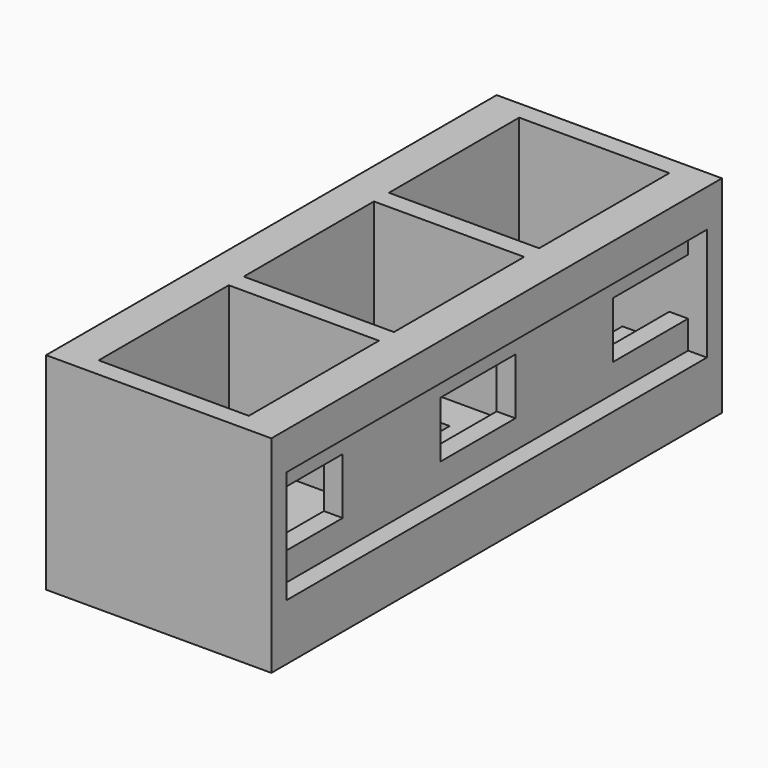
from build123d import *

# Parameters (mm, degrees)
F0_W      = 25.4
F0_H      = 25.4
F1_DEPTH  = 76.2
F2_W      = 5.08
F2_H      = 7.62
F3_DEPTH  = 25.4
F4_W      = 76.2
F4_H      = 25.4
F4_W_2    = 71.12
F4_H_2    = 15.24
F5_DEPTH  = 2.54
F6_W      = 76.2
F6_H      = 25.4
F6_W_2    = 71.12
F6_H_2    = 15.24
F7_DEPTH  = 2.54
F8_W      = 5.08
F8_H      = 7.62
F8_W_2    = 2.54
F8_W_3    = 3.81
F9_DEPTH  = 25.4
F10_W     = 7.62
F10_H     = 12.7
F11_DEPTH = 25.4
F12_W     = 2.54
F12_H     = 71.12
F13_DEPTH = 2.54
F14_W     = 71.12
F14_H     = 15.24
F15_DEPTH = 2.54
F16_W     = 12.7
F16_H     = 7.62
F17_DEPTH = 8.89
F18_W     = 12.7
F18_H     = 7.62
F19_DEPTH = 8.89
F20_W     = 12.7
F20_H     = 7.62
F21_DEPTH = 8.89
F22_W     = 20.32
F22_H     = 22.0218
F22_H_2   = 22.013333
F22_H_3   = 22.004867
F23_DEPTH = 20.32
F25_W     = 76.2
F25_H     = 2.54
F26_DEPTH = 2.54
F27_W     = 2.54
F27_H     = 76.2
F28_DEPTH = 2.54


with BuildPart() as f1:
    # F0 (on Front) → F1 (new body)
    with BuildSketch(Plane.XZ):
        with Locations((12.7, 12.7)):
            Rectangle(F0_W, F0_H)
    extrude(amount=F1_DEPTH)

    # F2 (on face) → F3 (cut)
    with BuildSketch(Plane(origin=(0, 0, 0), x_dir=(0, -1, 0), z_dir=(-1, 0, 0))):
        with Locations((7.62, 12.7)):
            Rectangle(F2_W, F2_H)
        with Locations((38.1, 12.7)):
            Rectangle(F2_W, F2_H)
        with Locations((68.58, 12.7)):
            Rectangle(F2_W, F2_H)
    extrude(amount=-F3_DEPTH, mode=Mode.SUBTRACT)

    # F4 (on face) → F5 (join)
    with BuildSketch(Plane(origin=(0, 0, 0), x_dir=(0, -1, 0), z_dir=(-1, 0, 0))):
        with Locations((38.1, 12.7)):
            Rectangle(F4_W, F4_H)
        with Locations((38.1, 12.7)):
            Rectangle(F4_W_2, F4_H_2, mode=Mode.SUBTRACT)
    extrude(amount=F5_DEPTH)

    # F6 (on face) → F7 (join)
    with BuildSketch(Plane.YZ.offset(25.4)):
        with Locations((-38.1, 12.7)):
            Rectangle(F6_W, F6_H)
        with Locations((-38.1, 12.7)):
            Rectangle(F6_W_2, F6_H_2, mode=Mode.SUBTRACT)
    extrude(amount=F7_DEPTH)

    # F8 (on face) → F9 (cut)
    with BuildSketch(Plane(origin=(0, 0, 0), x_dir=(0, -1, 0), z_dir=(-1, 0, 0))):
        with Locations((12.7, 12.7)):
            Rectangle(F8_W, F8_H)
        with Locations((3.81, 12.7)):
            Rectangle(F8_W_2, F8_H)
        with Locations((33.655, 12.7)):
            Rectangle(F8_W_3, F8_H)
        with Locations((42.545, 12.7)):
            Rectangle(F8_W_3, F8_H)
        with Locations((63.5, 12.7)):
            Rectangle(F8_W, F8_H)
        with Locations((72.39, 12.7)):
            Rectangle(F8_W_2, F8_H)
    extrude(amount=-F9_DEPTH, mode=Mode.SUBTRACT)

    # F10 (on face) → F11 (cut)
    with BuildSketch(Plane(origin=(0, 0, 0), x_dir=(1, 0, 0), z_dir=(0, 0, -1))):
        with Locations((12.7, 8.89)):
            Rectangle(F10_W, F10_H)
        with Locations((12.7, 38.1)):
            Rectangle(F10_W, F10_H)
        with Locations((12.7, 67.31)):
            Rectangle(F10_W, F10_H)
    extrude(amount=-F11_DEPTH, mode=Mode.SUBTRACT)

    # F12 (on face) → F13 (join)
    with BuildSketch(Plane(origin=(0, 0, 0), x_dir=(1, 0, 0), z_dir=(0, 0, -1))):
        Polygon((0, 76.2), (0, 73.66), (2.54, 73.66), (22.86, 73.66), (25.4, 73.66), (25.4, 76.2), align=None)
        with Locations((1.27, 38.1)):
            Rectangle(F12_W, F12_H)
        with Locations((24.13, 38.1)):
            Rectangle(F12_W, F12_H)
        Polygon((2.54, 2.54), (0, 2.54), (0, 0), (25.4, 0), (25.4, 2.54), (22.86, 2.54), align=None)
    extrude(amount=F13_DEPTH)

    # F14 (on face) → F15 (join)
    with BuildSketch(Plane(origin=(0, 0, 0), x_dir=(0, -1, 0), z_dir=(-1, 0, 0))):
        with Locations((38.1, 12.7)):
            Rectangle(F14_W, F14_H)
    extrude(amount=F15_DEPTH)

    # F16 (on face) → F17 (join)
    with BuildSketch(Plane.YZ):
        with Locations((-38.1, 12.7)):
            Rectangle(F16_W, F16_H)
    extrude(amount=F17_DEPTH)

    # F18 (on face) → F19 (join)
    with BuildSketch(Plane.YZ):
        with Locations((-67.31, 12.7)):
            Rectangle(F18_W, F18_H)
    extrude(amount=F19_DEPTH)

    # F20 (on face) → F21 (join)
    with BuildSketch(Plane.YZ):
        with Locations((-8.89, 12.7)):
            Rectangle(F20_W, F20_H)
    extrude(amount=F21_DEPTH)

    # F22 (on face) → F23 (cut)
    with BuildSketch(Plane.XY.offset(25.4)):
        with Locations((12.7, -13.5509)):
            Rectangle(F22_W, F22_H)
        with Locations((12.7, -38.108466)):
            Rectangle(F22_W, F22_H_2)
        with Locations((12.7, -62.657567)):
            Rectangle(F22_W, F22_H_3)
    extrude(amount=-F23_DEPTH, mode=Mode.SUBTRACT)

    # F25 (on face) → F26 (join)
    with BuildSketch(Plane(origin=(0, 0, 0), x_dir=(0, -1, 0), z_dir=(-1, 0, 0))):
        with Locations((38.1, -1.27)):
            Rectangle(F25_W, F25_H)
    extrude(amount=F26_DEPTH)

    # F27 (on face) → F28 (join)
    with BuildSketch(Plane(origin=(0, 0, 0), x_dir=(1, 0, 0), z_dir=(0, 0, -1))):
        with Locations((26.67, 38.1)):
            Rectangle(F27_W, F27_H)
    extrude(amount=F28_DEPTH)


solid = f1.part
